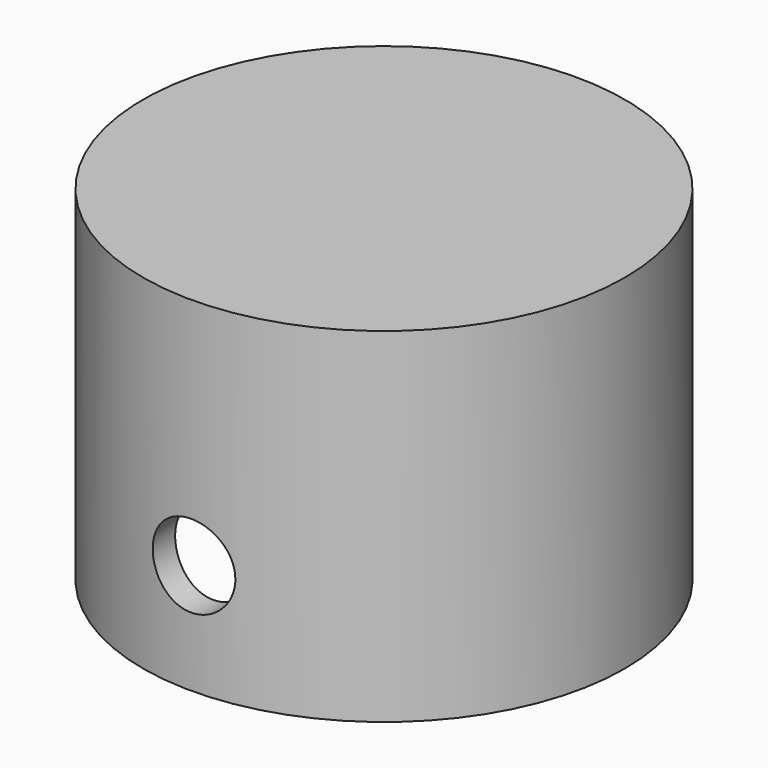
from build123d import *

# Parameters (mm, degrees)
F0_R     = 17.5
F1_DEPTH = 25
F2_T     = -2
F3_R     = 3
F4_DEPTH = 19.6


with BuildPart() as f1:
    # F0 (on Top) → F1 (new body)
    with BuildSketch(Plane.XY):
        Circle(F0_R)
    extrude(amount=F1_DEPTH)

    # F2
    f2_openings = [f1.faces().sort_by_distance(p)[0] for p in [
        (0, 0, 0),
    ]]
    offset(amount=F2_T, openings=f2_openings)

    # F3 (on Front) → F4 (cut, symmetric)
    with BuildSketch(Plane.XZ):
        with Locations((0, 8)):
            Circle(F3_R)
    extrude(amount=F4_DEPTH, both=True, mode=Mode.SUBTRACT)


solid = f1.part
